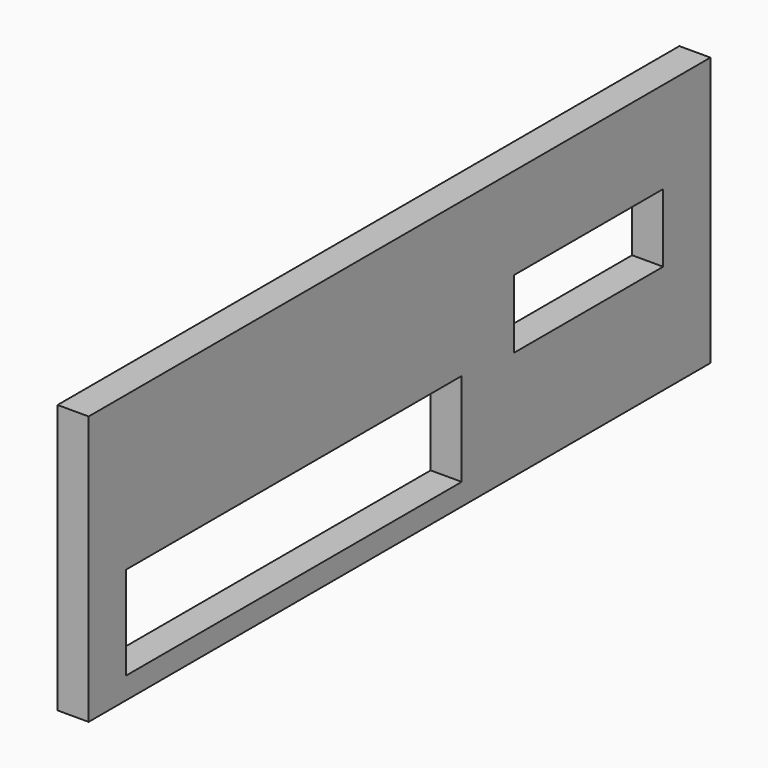
from build123d import *

# Parameters (mm, degrees)
BOX010_W     = 4
BOX010_H     = 27
BOX010_DEPTH = 6
BOX009_W     = 4
BOX009_H     = 12
BOX009_DEPTH = 4.4
BOX008_W     = 2
BOX008_H     = 50
BOX008_DEPTH = 17.3


with BuildPart() as obj1:
    # Box010 → Box010 (new body)
    with BuildSketch(Plane(origin=(30.2, -29, -28.6), x_dir=(1, 0, 0), z_dir=(0, 0, 1))):
        with Locations((2, 13.5)):
            Rectangle(BOX010_W, BOX010_H)
    extrude(amount=BOX010_DEPTH)


with BuildPart() as obj2:
    # Box009 → Box009 (new body)
    with BuildSketch(Plane(origin=(30.4, 2.2, -23), x_dir=(1, 0, 0), z_dir=(0, 0, 1))):
        with Locations((2, 6)):
            Rectangle(BOX009_W, BOX009_H)
    extrude(amount=BOX009_DEPTH)


with BuildPart() as obj3:
    # Box008 → Box008 (new body)
    with BuildSketch(Plane(origin=(31.6, -32, -30), x_dir=(1, 0, 0), z_dir=(0, 0, 1))):
        with Locations((1, 25)):
            Rectangle(BOX008_W, BOX008_H)
    extrude(amount=BOX008_DEPTH)

    # Cut015: cut obj2
    add(obj2.part, mode=Mode.SUBTRACT)

    # Cut016: cut obj1
    add(obj1.part, mode=Mode.SUBTRACT)


solid = obj3.part
